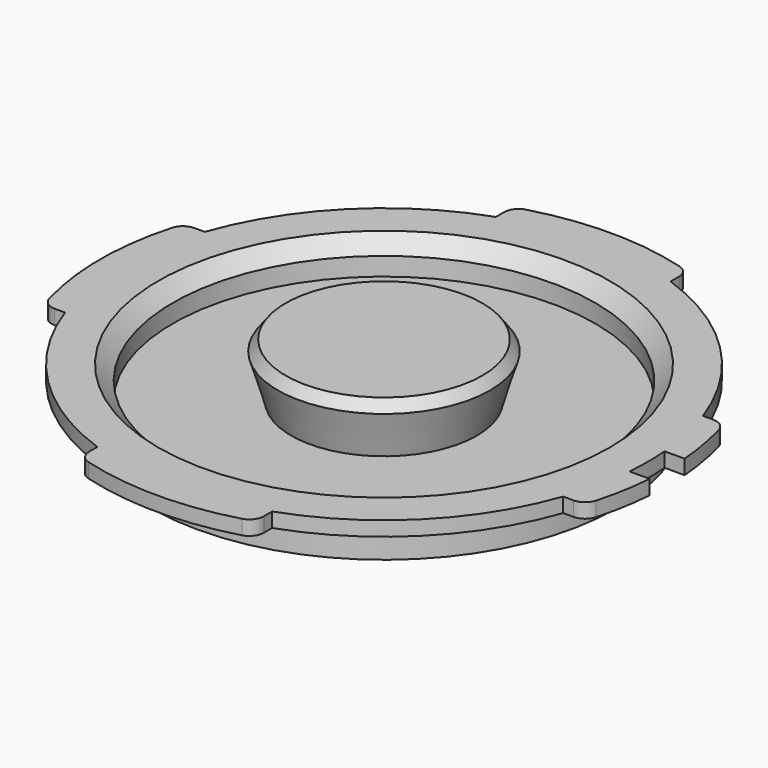
from build123d import *

# Parameters (mm, degrees)
CHAMFER001_SIZE           = 1.5
CYLINDER006_R             = 31
CYLINDER006_DEPTH         = 7
CHAMFER_SIZE              = 3
CYLINDER005_R             = 29
CYLINDER005_DEPTH         = 7
BOX004_W                  = 10
BOX004_H                  = 6
BOX004_DEPTH              = 10
BOX001_W                  = 100
BOX001_H                  = 40
BOX001_DEPTH              = 10
BOX_W                     = 100
BOX_H                     = 40
BOX_DEPTH                 = 10
CYLINDER003_R             = 39
CYLINDER003_DEPTH         = 2
FILLET_R                  = 2
FILLET001_R               = 2
BOX002_W                  = 100
BOX002_H                  = 40
BOX002_DEPTH              = 10
BOX003_W                  = 100
BOX003_H                  = 40
BOX003_DEPTH              = 10
CYLINDER004_R             = 39
CYLINDER004_DEPTH         = 2
FILLET003_R               = 2
FILLET002_R               = 2
FILLET002_PLACEMENT_ANGLE = 90
CYLINDER_R                = 32
CYLINDER_DEPTH            = 7
CYLINDER001_R             = 36.25
CYLINDER001_DEPTH         = 2


with BuildPart() as handle:
    # Cone → Cone (revolve)
    with BuildSketch(Plane.XZ):
        Polygon((0, 0), (12, 0), (15, 10), (0, 10), align=None)
    revolve(axis=Axis((0, 0, 0), (0, 0, 1)))

    # Chamfer001
    chamfer001_edges = [handle.edges().sort_by_distance(p)[0] for p in [
        (-15, 0, 10),
    ]]
    chamfer(chamfer001_edges, length=CHAMFER001_SIZE)


with BuildPart() as chamfer_body:
    # Cylinder006 → Cylinder006 (new body)
    with BuildSketch(Plane.XY.offset(4)):
        Circle(CYLINDER006_R)
    extrude(amount=CYLINDER006_DEPTH)

    # Chamfer
    chamfer_edges = [chamfer_body.edges().sort_by_distance(p)[0] for p in [
        (-31, 0, 4),
    ]]
    chamfer(chamfer_edges, length=CHAMFER_SIZE)


with BuildPart() as cylinder005:
    # Cylinder005 → Cylinder005 (new body)
    with BuildSketch(Plane.XY.offset(2.5)):
        Circle(CYLINDER005_R)
    extrude(amount=CYLINDER005_DEPTH)


with BuildPart() as cube004:
    # Box004 → Box004 (new body)
    with BuildSketch(Plane(origin=(36, -3, 0), x_dir=(1, 0, 0), z_dir=(0, 0, 1))):
        with Locations((5, 3)):
            Rectangle(BOX004_W, BOX004_H)
    extrude(amount=BOX004_DEPTH)


with BuildPart() as cube001:
    # Box001 → Box001 (new body)
    with BuildSketch(Plane(origin=(-50, -52, 0), x_dir=(1, 0, 0), z_dir=(0, 0, 1))):
        with Locations((50, 20)):
            Rectangle(BOX001_W, BOX001_H)
    extrude(amount=BOX001_DEPTH)


with BuildPart() as fusion:
    # Box → Box (new body)
    with BuildSketch(Plane(origin=(-50, 12, 0), x_dir=(1, 0, 0), z_dir=(0, 0, 1))):
        with Locations((50, 20)):
            Rectangle(BOX_W, BOX_H)
    extrude(amount=BOX_DEPTH)

    # Fusion: union Cube001
    add(cube001.part)


with BuildPart() as cut002:
    # Cylinder003 → Cylinder003 (new body)
    with BuildSketch(Plane.XY.offset(5)):
        Circle(CYLINDER003_R)
    extrude(amount=CYLINDER003_DEPTH)

    # Cut: cut Fusion
    add(fusion.part, mode=Mode.SUBTRACT)

    # Fillet
    fillet_edges = [cut002.edges().sort_by_distance(p)[0] for p in [
        (37.107951, -12, 6),
        (37.107951, 12, 6),
    ]]
    fillet(fillet_edges, radius=FILLET_R)

    # Fillet001
    fillet001_edges = [cut002.edges().sort_by_distance(p)[0] for p in [
        (-37.107951, -12, 6),
        (-37.107951, 12, 6),
    ]]
    fillet(fillet001_edges, radius=FILLET001_R)

    # Cut002: cut Cube004
    add(cube004.part, mode=Mode.SUBTRACT)


with BuildPart() as cube002:
    # Box002 → Box002 (new body)
    with BuildSketch(Plane(origin=(-50, -52, 0), x_dir=(1, 0, 0), z_dir=(0, 0, 1))):
        with Locations((50, 20)):
            Rectangle(BOX002_W, BOX002_H)
    extrude(amount=BOX002_DEPTH)


with BuildPart() as fusion001:
    # Box003 → Box003 (new body)
    with BuildSketch(Plane(origin=(-50, 12, 0), x_dir=(1, 0, 0), z_dir=(0, 0, 1))):
        with Locations((50, 20)):
            Rectangle(BOX003_W, BOX003_H)
    extrude(amount=BOX003_DEPTH)

    # Fusion001: union Cube002
    add(cube002.part)


with BuildPart() as bayonet:
    # Cylinder004 → Cylinder004 (new body)
    with BuildSketch(Plane.XY.offset(5)):
        Circle(CYLINDER004_R)
    extrude(amount=CYLINDER004_DEPTH)

    # Cut001: cut Fusion001
    add(fusion001.part, mode=Mode.SUBTRACT)

    # Fillet003
    fillet003_edges = [bayonet.edges().sort_by_distance(p)[0] for p in [
        (37.107951, -12, 6),
        (37.107951, 12, 6),
    ]]
    fillet(fillet003_edges, radius=FILLET003_R)

    # Fillet002
    fillet002_edges = [bayonet.edges().sort_by_distance(p)[0] for p in [
        (-37.107951, -12, 6),
        (-37.107951, 12, 6),
    ]]
    fillet(fillet002_edges, radius=FILLET002_R)


with BuildPart() as bayonet_1:
    # Fillet002 placement: moved
    add(bayonet.part.rotate(Axis((0, 0, 0), (0, 0, 1)), FILLET002_PLACEMENT_ANGLE))

    # Fusion002: union Cut002
    add(cut002.part)


with BuildPart() as fusion003:
    # Cylinder → Cylinder (new body)
    with BuildSketch(Plane.XY):
        Circle(CYLINDER_R)
    extrude(amount=CYLINDER_DEPTH)

    # Fusion003: union Bayonet
    add(bayonet_1.part)


with BuildPart() as oct19_body_port_cover:
    # Cylinder001 → Cylinder001 (new body)
    with BuildSketch(Plane.XY.offset(5)):
        Circle(CYLINDER001_R)
    extrude(amount=CYLINDER001_DEPTH)

    # Fusion004: union Fusion003
    add(fusion003.part)

    # Cut003: cut Cylinder005
    add(cylinder005.part, mode=Mode.SUBTRACT)

    # Cut004: cut Chamfer body
    add(chamfer_body.part, mode=Mode.SUBTRACT)

    # Fusion005: union Handle
    add(handle.part)


solid = oct19_body_port_cover.part
